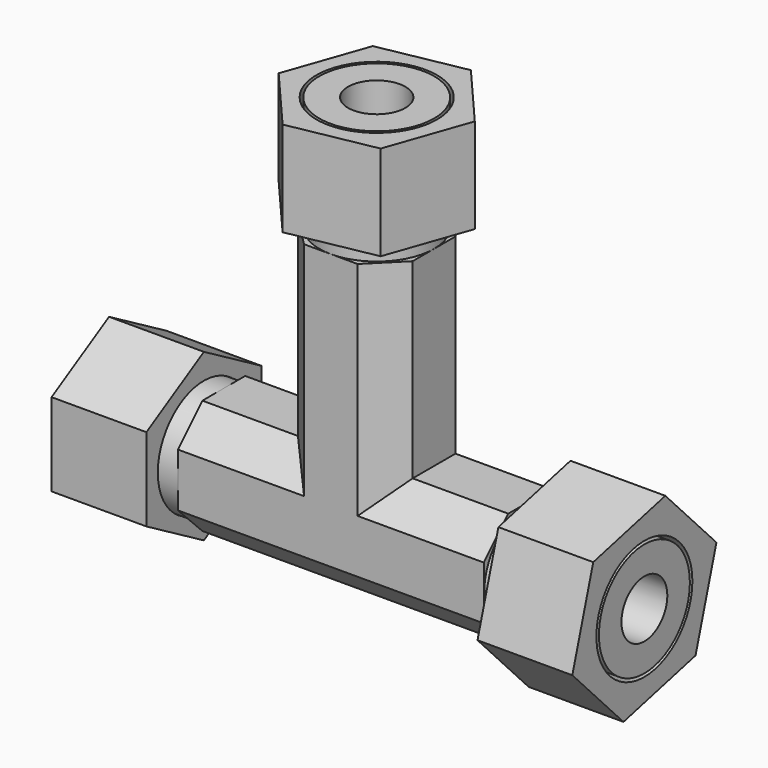
from build123d import *

# Parameters (mm, degrees)
F1_DEPTH  = 19.05
F2_R      = 9.440271
F2_R_2    = 4.7625
F3_DEPTH  = 19.05
F4_R      = 9.525
F4_R_2    = 4.7625
F5_DEPTH  = 19.05
F6_R      = 9.525
F6_R_2    = 4.7625
F7_DEPTH  = 19.05
F8_SIZE   = 5.08
F9_R      = 9.564723
F10_DEPTH = 15.748
F11_R     = 9.961503
F12_DEPTH = 15.748
F13_R     = 10.00473
F14_DEPTH = 15.748


with BuildPart() as f1:
    # F0 (on Front) → F1 (new body)
    with BuildSketch(Plane.XZ):
        Polygon((-25.4, -9.525), (25.4, -9.525), (25.4, 9.525), (9.525, 9.525), (9.525, 41.275), (-9.525, 41.275), (-9.525, 9.525), (-25.4, 9.525), align=None)
    extrude(amount=F1_DEPTH)

    # F2 (on face) → F3 (join)
    with BuildSketch(Plane.YZ.offset(25.4)):
        with Locations((-9.525, 0)):
            Circle(F2_R)
        with Locations((-9.525, 0)):
            Circle(F2_R_2, mode=Mode.SUBTRACT)
    extrude(amount=F3_DEPTH)

    # F4 (on face) → F5 (join)
    with BuildSketch(Plane(origin=(-25.4, 0, 0), x_dir=(0, -1, 0), z_dir=(-1, 0, 0))):
        with Locations((9.525, 0)):
            Circle(F4_R)
        with Locations((9.525, 0)):
            Circle(F4_R_2, mode=Mode.SUBTRACT)
    extrude(amount=F5_DEPTH)

    # F6 (on face) → F7 (join)
    with BuildSketch(Plane.XY.offset(41.275)):
        with Locations((0, -9.525)):
            Circle(F6_R)
        with Locations((0, -9.525)):
            Circle(F6_R_2, mode=Mode.SUBTRACT)
    extrude(amount=F7_DEPTH)

    # F8
    f8_edges = [f1.edges().sort_by_distance(p)[0] for p in [
        (-9.525, -19.05, 25.4),
        (9.525, -19.05, 25.4),
        (17.4625, -19.05, 9.525),
        (0, 0, -9.525),
        (0, -19.05, -9.525),
        (-17.4625, -19.05, 9.525),
        (-17.4625, 0, 9.525),
        (-9.525, 0, 25.4),
        (9.525, 0, 25.4),
        (17.4625, 0, 9.525),
    ]]
    chamfer(f8_edges, length=F8_SIZE)


with BuildPart() as f10:
    # F9 (on face) → F10 (new body)
    with BuildSketch(Plane(origin=(-44.45, 0, 0), x_dir=(0, -1, 0), z_dir=(-1, 0, 0))):
        Polygon((21.461273, -6.89141), (21.461273, 6.89141), (9.525, 13.78282), (-2.411273, 6.89141), (-2.411273, -6.89141), (9.525, -13.78282), align=None)
        with Locations((9.525, 0)):
            Circle(F9_R, mode=Mode.SUBTRACT)
    extrude(amount=-F10_DEPTH)


with BuildPart() as f12:
    # F11 (on face) → F12 (new body)
    with BuildSketch(Plane.YZ.offset(44.45)):
        Polygon((1.093901, -11.141752), (5.433491, 3.625362), (-5.18541, 14.767114), (-20.143901, 11.141752), (-24.483491, -3.625362), (-13.86459, -14.767114), align=None)
        with Locations((-9.525, 0)):
            Circle(F11_R, mode=Mode.SUBTRACT)
    extrude(amount=-F12_DEPTH)


with BuildPart() as f14:
    # F13 (on face) → F14 (new body)
    with BuildSketch(Plane.XY.offset(60.325)):
        Polygon((9.388564, -20.443068), (14.149606, -6.853299), (4.761042, 4.064769), (-9.388564, 1.393068), (-14.149606, -12.196701), (-4.761042, -23.114769), align=None)
        with Locations((0, -9.525)):
            Circle(F13_R, mode=Mode.SUBTRACT)
    extrude(amount=-F14_DEPTH)


solid = Compound([f1.part, f10.part, f12.part, f14.part])
